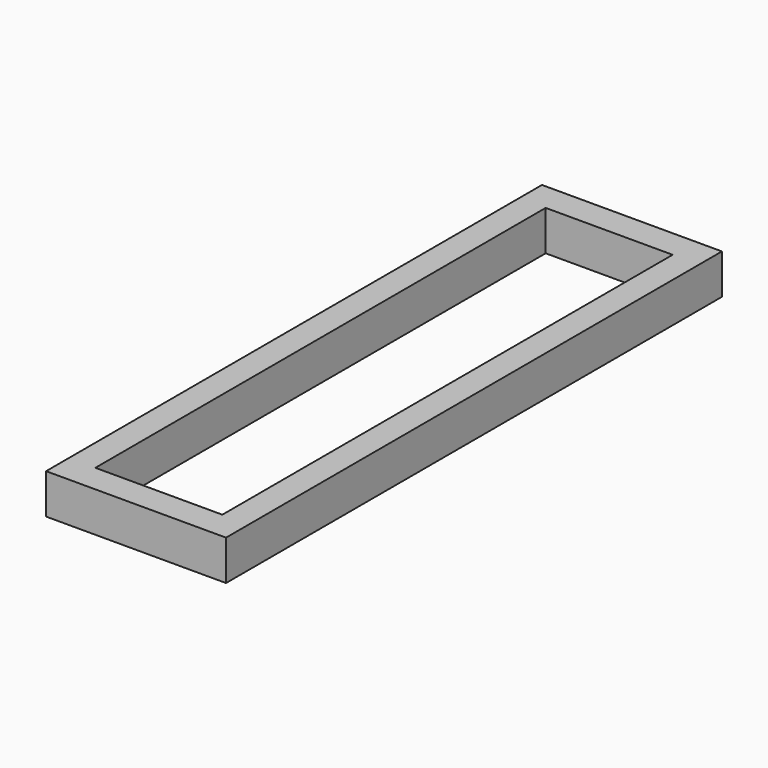
from build123d import *

# Parameters (mm, degrees)
F0_W     = 9
F0_H     = 31
F1_DEPTH = 2
F3_W     = 6.35
F3_H     = 28.15
F4_DEPTH = 15.9


with BuildPart() as f1:
    # F0 (on Top) → F1 (new body)
    with BuildSketch(Plane.XY):
        Rectangle(F0_W, F0_H)
    extrude(amount=F1_DEPTH)

    # F3 (on offset) → F4 (cut)
    with BuildSketch(Plane.XY.offset(2)):
        Rectangle(F3_W, F3_H)
    extrude(amount=-F4_DEPTH, mode=Mode.SUBTRACT)


solid = f1.part
